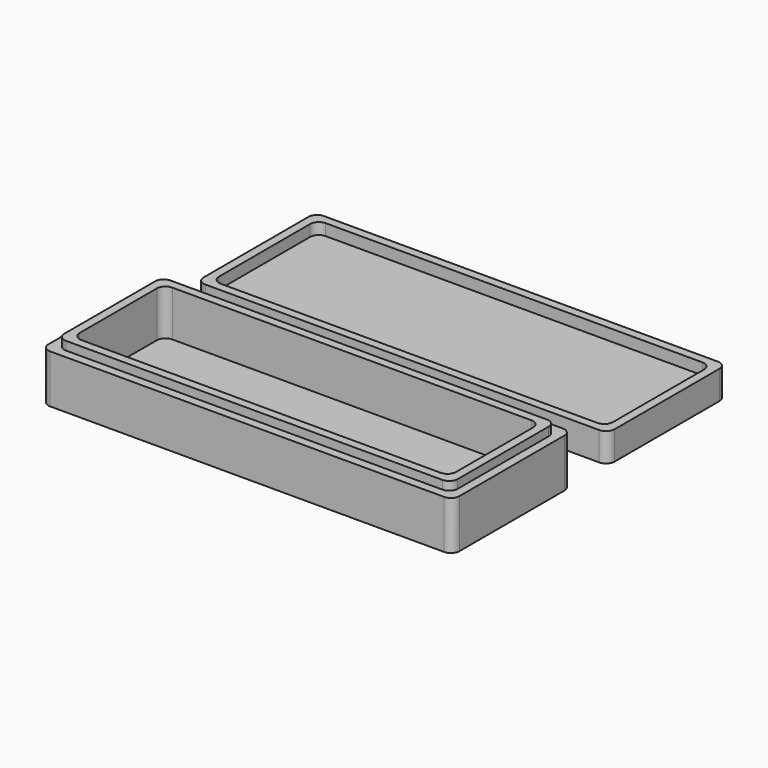
from build123d import *

# Parameters (mm, degrees)
F0_W     = 228.854
F0_H     = 82.55
F1_DEPTH = 31.75
F2_W     = 209.55
F2_H     = 63.246
F3_DEPTH = 25.4
F4_W     = 228.854
F4_H     = 82.55
F4_W_2   = 219.075
F4_H_2   = 72.771
F5_DEPTH = 4.7625
F6_W     = 228.854
F6_H     = 82.55
F7_DEPTH = 15.875
F8_W     = 219.329
F8_H     = 73.025
F9_DEPTH = 6.35
F10_R    = 4.7625
F11_R    = 4.7625


with BuildPart() as f1:
    # F0 (on Top) → F1 (new body)
    with BuildSketch(Plane.XY):
        with Locations((114.427, 41.275)):
            Rectangle(F0_W, F0_H)
    extrude(amount=F1_DEPTH)

    # F2 (on face) → F3 (cut)
    with BuildSketch(Plane.XY.offset(31.75)):
        with Locations((114.427, 41.275)):
            Rectangle(F2_W, F2_H)
    extrude(amount=-F3_DEPTH, mode=Mode.SUBTRACT)

    # F4 (on face) → F5 (cut)
    with BuildSketch(Plane.XY.offset(31.75)):
        with Locations((114.427, 41.275)):
            Rectangle(F4_W, F4_H)
        with Locations((114.427, 41.275)):
            Rectangle(F4_W_2, F4_H_2, mode=Mode.SUBTRACT)
    extrude(amount=-F5_DEPTH, mode=Mode.SUBTRACT)

    # F10
    f10_edges = [f1.edges().sort_by_distance(p)[0] for p in [
        (9.652, 9.652, 19.05),
        (9.652, 72.898, 19.05),
        (219.202, 72.898, 19.05),
        (219.202, 9.652, 19.05),
        (0, 0, 13.49375),
        (0, 82.55, 13.49375),
        (228.854, 0, 13.49375),
        (228.854, 82.55, 13.49375),
        (223.9645, 77.6605, 29.36875),
        (223.9645, 4.8895, 29.36875),
        (4.8895, 4.8895, 29.36875),
        (4.8895, 77.6605, 29.36875),
    ]]
    fillet(f10_edges, radius=F10_R)


with BuildPart() as f7:
    # F6 (on Top) → F7 (new body)
    with BuildSketch(Plane.XY):
        with Locations((114.427, 149.225)):
            Rectangle(F6_W, F6_H)
    extrude(amount=F7_DEPTH)

    # F8 (on face) → F9 (cut)
    with BuildSketch(Plane.XY.offset(15.875)):
        with Locations((114.427, 149.225)):
            Rectangle(F8_W, F8_H)
    extrude(amount=-F9_DEPTH, mode=Mode.SUBTRACT)

    # F11
    f11_edges = [f7.edges().sort_by_distance(p)[0] for p in [
        (4.7625, 185.7375, 12.7),
        (224.0915, 185.7375, 12.7),
        (224.0915, 112.7125, 12.7),
        (4.7625, 112.7125, 12.7),
        (228.854, 190.5, 7.9375),
        (0, 190.5, 7.9375),
        (0, 107.95, 7.9375),
        (228.854, 107.95, 7.9375),
    ]]
    fillet(f11_edges, radius=F11_R)


solid = Compound([f1.part, f7.part])
